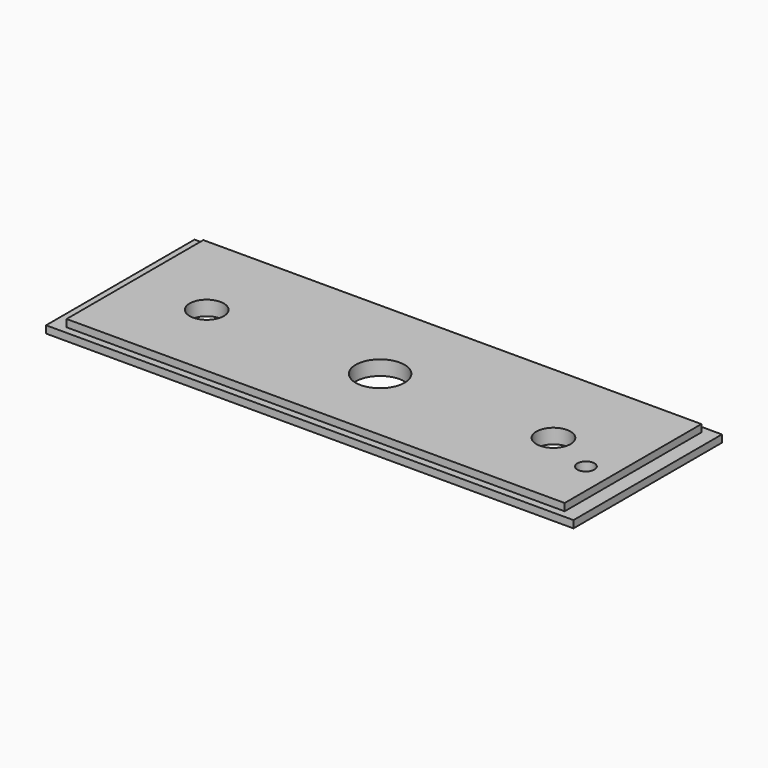
from build123d import *

# Parameters (mm, degrees)
SKETCH_W        = 108
SKETCH_H        = 38
PAD_DEPTH       = 3
SKETCH002_W     = 3
SKETCH002_H     = 38
POCKET_DEPTH    = 1.5
SKETCH003_W     = 3
SKETCH003_H     = 38
POCKET001_DEPTH = 1.5
SKETCH004_W     = 102
SKETCH004_H     = 1.5
POCKET002_DEPTH = 1.5
SKETCH005_W     = 102
SKETCH005_H     = 1.5
POCKET003_DEPTH = 1.5
SKETCH006_R     = 5
POCKET004_DEPTH = 3
SKETCH008_R     = 3.5
POCKET005_DEPTH = 3
SKETCH009_R     = 3.5
POCKET006_DEPTH = 3
SKETCH010_R     = 1.75
POCKET007_DEPTH = 3


with BuildPart() as part:
    # Sketch → Pad (new body)
    with BuildSketch(Plane.XY):
        with Locations((54, -19)):
            Rectangle(SKETCH_W, SKETCH_H)
    extrude(amount=PAD_DEPTH)

    # Sketch002 (on Face6 of Pad) → Pocket (cut)
    with BuildSketch(Plane.XY.offset(3)):
        with Locations((1.5, -19)):
            Rectangle(SKETCH002_W, SKETCH002_H)
    extrude(amount=-POCKET_DEPTH, mode=Mode.SUBTRACT)

    # Sketch003 (on Face4 of Pocket) → Pocket001 (cut)
    with BuildSketch(Plane.XY.offset(3)):
        with Locations((106.5, -19)):
            Rectangle(SKETCH003_W, SKETCH003_H)
    extrude(amount=-POCKET001_DEPTH, mode=Mode.SUBTRACT)

    # Sketch004 (on Face6 of Pocket001) → Pocket002 (cut)
    with BuildSketch(Plane.XY.offset(3)):
        with Locations((54, -0.75)):
            Rectangle(SKETCH004_W, SKETCH004_H)
    extrude(amount=-POCKET002_DEPTH, mode=Mode.SUBTRACT)

    # Sketch005 (on Face12 of Pocket002) → Pocket003 (cut)
    with BuildSketch(Plane.XY.offset(3)):
        with Locations((54, -37.25)):
            Rectangle(SKETCH005_W, SKETCH005_H)
    extrude(amount=-POCKET003_DEPTH, mode=Mode.SUBTRACT)

    # Sketch006 (on Face13 of Pocket003) → Pocket004 (cut)
    with BuildSketch(Plane.XY.offset(3)):
        with Locations((54, -20)):
            Circle(SKETCH006_R)
    extrude(amount=-POCKET004_DEPTH, mode=Mode.SUBTRACT)

    # Sketch008 (on Face14 of Pocket004) → Pocket005 (cut)
    with BuildSketch(Plane.XY.offset(3)):
        with Locations((18.5, -20)):
            Circle(SKETCH008_R)
    extrude(amount=-POCKET005_DEPTH, mode=Mode.SUBTRACT)

    # Sketch009 (on Face15 of Pocket005) → Pocket006 (cut)
    with BuildSketch(Plane.XY.offset(3)):
        with Locations((89.5, -20)):
            Circle(SKETCH009_R)
    extrude(amount=-POCKET006_DEPTH, mode=Mode.SUBTRACT)

    # Sketch010 (on Face16 of Pocket006) → Pocket007 (cut)
    with BuildSketch(Plane.XY.offset(3)):
        with Locations((99.75, -24.5)):
            Circle(SKETCH010_R)
    extrude(amount=-POCKET007_DEPTH, mode=Mode.SUBTRACT)


solid = part.part
